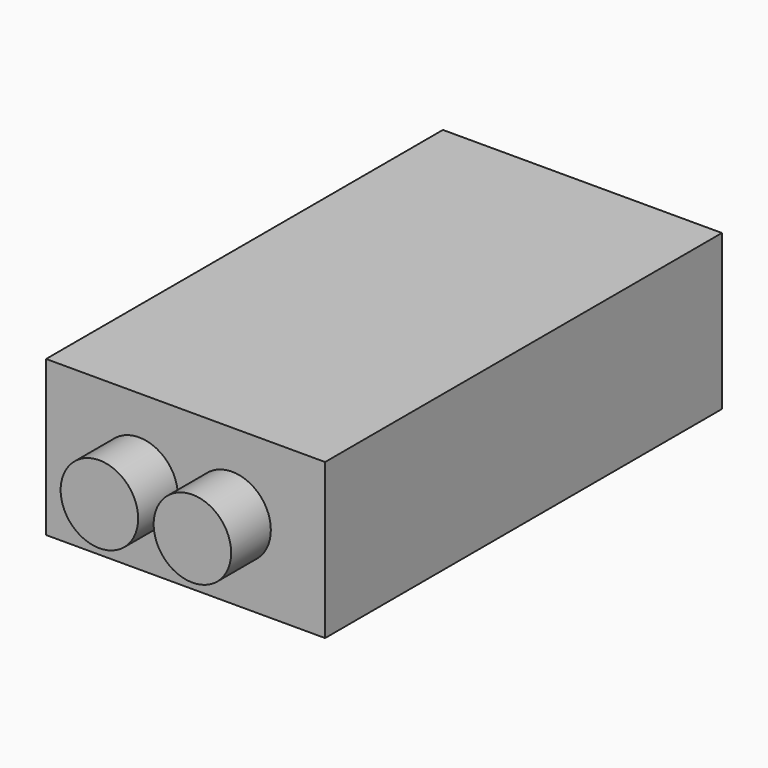
from build123d import *

# Parameters (mm, degrees)
F0_W     = 22.86
F0_H     = 40.64
F1_DEPTH = 12.7
F2_R     = 3.175
F3_DEPTH = 4.064


with BuildPart() as f1:
    # F0 (on Top) → F1 (new body)
    with BuildSketch(Plane.XY):
        with Locations((-13.57, 7.82)):
            Rectangle(F0_W, F0_H)
    extrude(amount=F1_DEPTH)

    # F2 (on face) → F3 (join)
    with BuildSketch(Plane.XZ.offset(12.5)):
        with Locations((-17.38, 6.35)):
            Circle(F2_R)
        with Locations((-9.76, 6.35)):
            Circle(F2_R)
    extrude(amount=F3_DEPTH)


solid = f1.part
